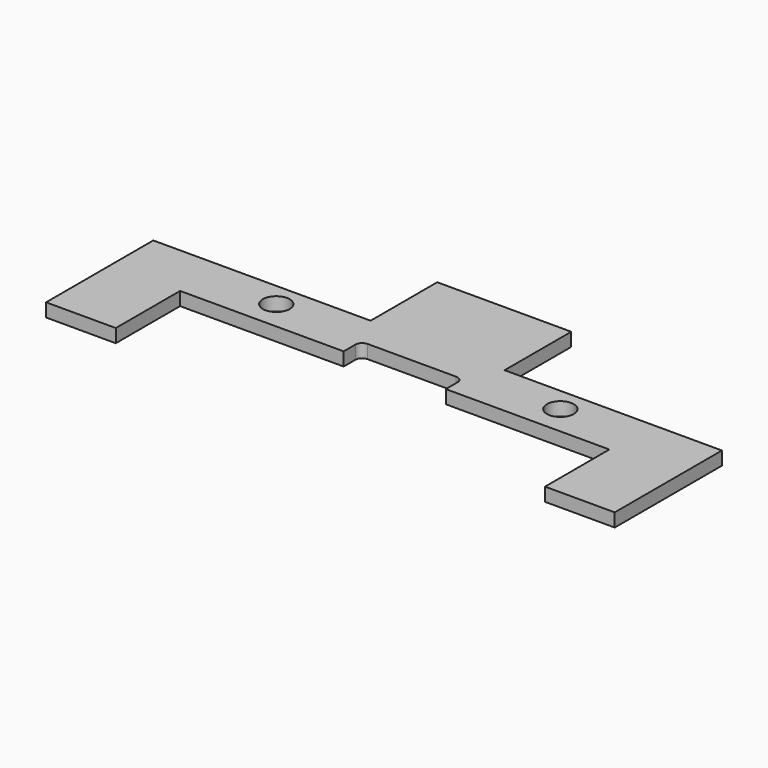
from build123d import *

# Parameters (mm, degrees)
F0_W      = 61.9999956
F0_H      = 10
F0_R      = 2.5
F1_DEPTH  = 2.5
F2_W      = 19.05
F2_H      = 4
F3_DEPTH  = 25.4
F4_R      = 1.27
F5_W      = 25
F5_H      = 2.5
F6_DEPTH  = 15.5406199982
F7_DEPTH  = 22.0406214
F8_W      = 12.99972
F8_H      = 2.5
F9_DEPTH  = 35.0012
F11_DEPTH = 22.0406214
F12_W     = 12.99972
F12_H     = 2.5
F13_DEPTH = 35.0012
F15_W     = 106.0812384
F15_H     = 37.9534307867
F16_DEPTH = 2.501


with BuildPart() as f1:
    # F0 (on Top) → F1 (new body)
    with BuildSketch(Plane.XY):
        with Locations((26.4999978, -0.5)):
            Rectangle(F0_W, F0_H)
        Circle(F0_R, mode=Mode.SUBTRACT)
        with Locations((52.9999956, 0)):
            Circle(F0_R, mode=Mode.SUBTRACT)
    extrude(amount=F1_DEPTH)

    # F2 (on face) → F3 (cut)
    with BuildSketch(Plane.XY.offset(2.5)):
        with Locations((26.5005656, -3.5)):
            Rectangle(F2_W, F2_H)
    extrude(amount=-F3_DEPTH, mode=Mode.SUBTRACT)

    # F4
    f4_edges = [f1.edges().sort_by_distance(p)[0] for p in [
        (36.025566, -1.5, 1.25),
        (16.975566, -1.5, 1.25),
    ]]
    fillet(f4_edges, radius=F4_R)

    # F5 (on face) → F6 (join)
    with BuildSketch(Plane(origin=(0, 4.5, 0), x_dir=(-1, 0, 0), z_dir=(0, 1, 0))):
        with Locations((-26.49943, 1.25)):
            Rectangle(F5_W, F5_H)
    extrude(amount=F6_DEPTH)

    # F7 (add): a face of the model
    f7_faces = [f1.faces().sort_by_distance(p)[0] for p in [
        (57.4999956, -0.5, 1.25),
    ]]
    extrude(f7_faces, amount=F7_DEPTH)

    # F8 (on face) → F9 (join)
    with BuildSketch(Plane.XZ.offset(5.5)):
        with Locations((73.040757, 1.25)):
            Rectangle(F8_W, F8_H)
    extrude(amount=F9_DEPTH)

    # F11 (add): a face of the model
    f11_faces = [f1.faces().sort_by_distance(p)[0] for p in [
        (-4.5, -0.5, 1.25),
    ]]
    extrude(f11_faces, amount=F11_DEPTH)

    # F12 (on face) → F13 (join)
    with BuildSketch(Plane.XZ.offset(5.5)):
        with Locations((-20.0407614, 1.25)):
            Rectangle(F12_W, F12_H)
    extrude(amount=F13_DEPTH)

    # F15 (on face) → F16 (cut, through all)
    with BuildSketch(Plane.XY.offset(2.5)):
        with Locations((26.4999978, -39.4779353934)):
            Rectangle(F15_W, F15_H)
    extrude(amount=-F16_DEPTH, mode=Mode.SUBTRACT)


solid = f1.part
